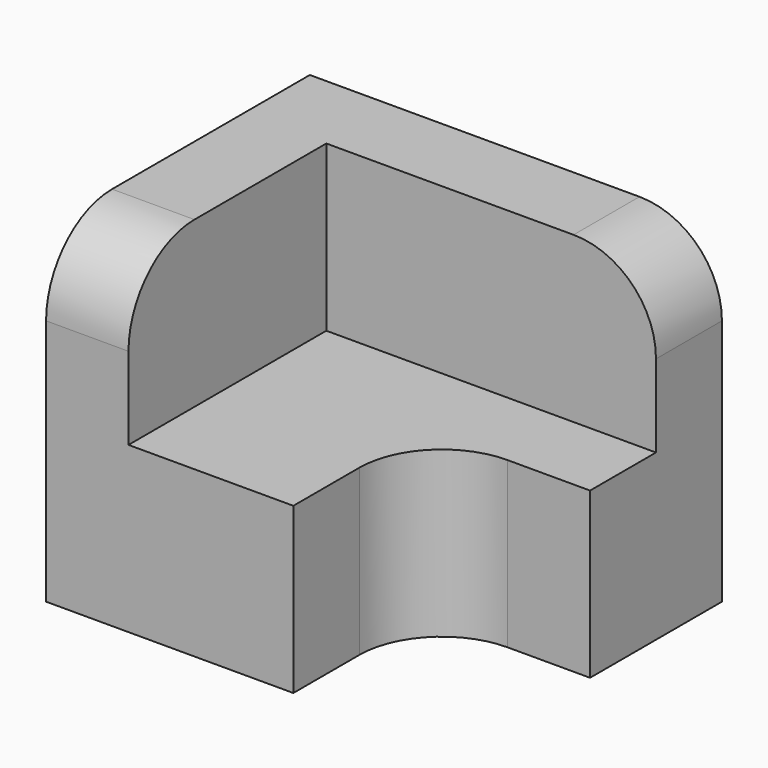
from build123d import *

# Parameters (mm, degrees)
F1_DEPTH = 40
F3_DEPTH = 20
F4_R     = 10


with BuildPart() as f1:
    # F0 (on Top) → F1 (new body)
    with BuildSketch(Plane.XY):
        with BuildLine():
            Line((0, 40), (0, 0))
            Line((0, 0), (30, 0))
            Line((30, 0), (30, 10))
            ThreePointArc((30, 10), (32.928932, 17.071068), (40, 20))
            Line((40, 20), (50, 20))
            Line((50, 20), (50, 40))
            Line((50, 40), (0, 40))
        make_face()
    extrude(amount=F1_DEPTH)

    # F2 (on face) → F3 (cut)
    with BuildSketch(Plane.XY.offset(40)):
        with BuildLine():
            Line((50, 20), (50, 30))
            Line((50, 30), (10, 30))
            Line((10, 30), (10, 0))
            Line((10, 0), (30, 0))
            Line((30, 0), (30, 10))
            ThreePointArc((30, 10), (32.928932, 17.071068), (40, 20))
            Line((40, 20), (50, 20))
        make_face()
    extrude(amount=-F3_DEPTH, mode=Mode.SUBTRACT)

    # F4
    f4_edges = [f1.edges().sort_by_distance(p)[0] for p in [
        (50, 35, 40),
        (5, 0, 40),
    ]]
    fillet(f4_edges, radius=F4_R)


solid = f1.part
